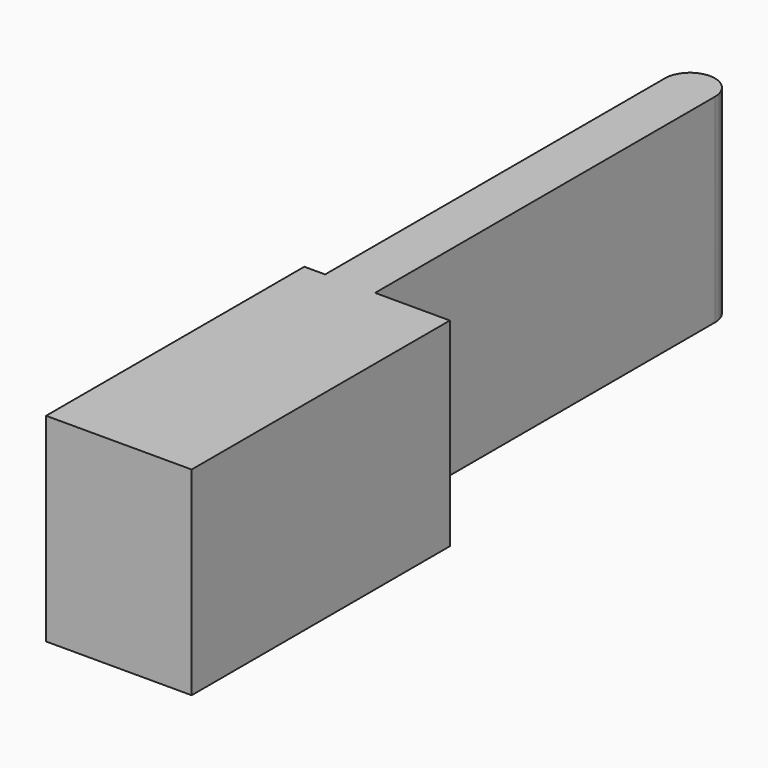
from build123d import *

# Parameters (mm, degrees)
F0_W     = 7.9843644053
F0_H     = 67.8671114147
F1_DEPTH = 6.35
F2_DEPTH = 7.62
F3_DEPTH = 25.4


with BuildPart() as f1:
    # F0 (on Top) → F1 (new body)
    with BuildSketch(Plane.XY):
        with Locations((-27.2799162194, 10.146798566)):
            Rectangle(F0_W, F0_H)
        with BuildLine():
            ThreePointArc((-23.2877340168, 44.0803542733), (-27.2799162194, 48.072536476), (-31.2720984221, 44.0803542733))
            Line((-31.2720984221, 44.0803542733), (-23.2877340168, 44.0803542733))
        make_face()
        Polygon((-34.5989204943, -23.7867571414), (-34.5989204943, -75.3524526954), (-18.9628694206, -75.3524526954), (-18.9628694206, -23.7867571414), (-23.2877340168, -23.7867571414), (-31.2720984221, -23.7867571414), align=None)
    extrude(amount=F1_DEPTH)

    # F2 (add): a face of the model
    f2_faces = [f1.faces().sort_by_distance(p)[0] for p in [
        (-18.9628694206, -49.5696049184, 3.175),
    ]]
    extrude(f2_faces, amount=F2_DEPTH)

    # F3 (add): a face of the model
    f3_faces = [f1.faces().sort_by_distance(p)[0] for p in [
        (-24.3540524425, -29.8961498867, 0),
    ]]
    extrude(f3_faces, amount=F3_DEPTH)


solid = f1.part
